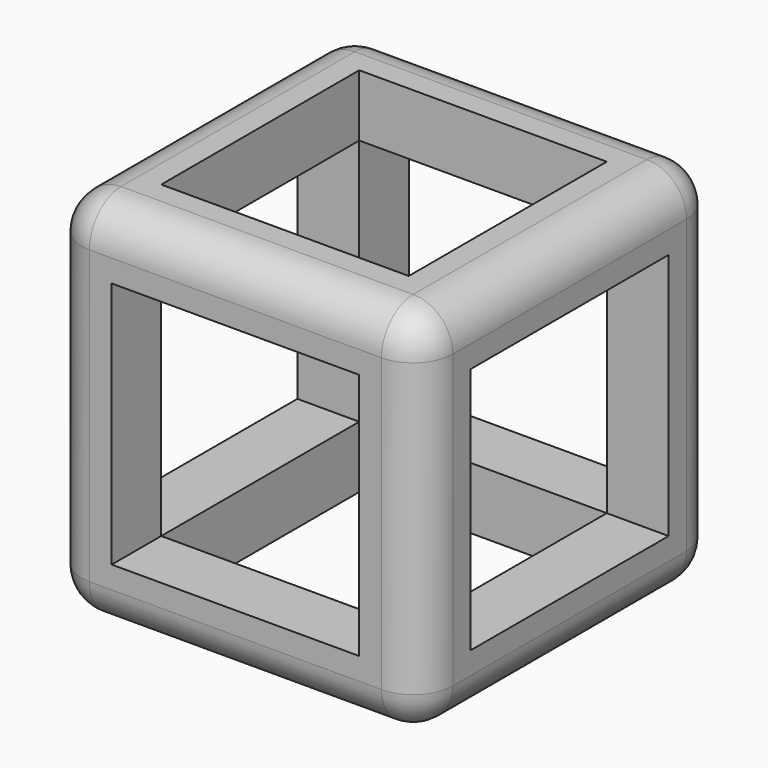
from build123d import *

# Parameters (mm, degrees)
F0_W      = 19.05
F0_H      = 19.05
F1_DEPTH  = 19.05
F2_R      = 2.032
F3_W      = 12.7
F3_H      = 12.7
F4_DEPTH  = 3.302
F5_W      = 6.35
F5_H      = 12.7
F6_DEPTH  = 3.302
F7_W      = 6.35
F7_H      = 12.7
F8_DEPTH  = 3.302
F9_W      = 6.35
F9_H      = 12.7
F10_DEPTH = 3.302
F11_W     = 6.35
F11_H     = 12.7
F12_DEPTH = 3.302
F13_W     = 6.35
F13_H     = 12.7
F14_DEPTH = 41.148


with BuildPart() as f1:
    # F0 (on Top) → F1 (new body)
    with BuildSketch(Plane.XY):
        Rectangle(F0_W, F0_H)
    extrude(amount=F1_DEPTH)

    # F2
    f2_edges = [f1.edges().sort_by_distance(p)[0] for p in [
        (-9.525, 0, 19.05),
        (0, -9.525, 19.05),
        (9.525, 0, 19.05),
        (0, 9.525, 19.05),
        (-9.525, 9.525, 9.525),
        (-9.525, -9.525, 9.525),
        (-9.525, 0, 0),
        (9.525, 9.525, 9.525),
        (0, 9.525, 0),
        (9.525, -9.525, 9.525),
        (0, -9.525, 0),
        (9.525, 0, 0),
    ]]
    fillet(f2_edges, radius=F2_R)

    # F3 (on face) → F4 (cut)
    with BuildSketch(Plane.XY.offset(19.05)):
        Rectangle(F3_W, F3_H)
    extrude(amount=-F4_DEPTH, mode=Mode.SUBTRACT)

    # F5 (on face) → F6 (cut)
    with BuildSketch(Plane(origin=(-9.525, 0, 0), x_dir=(0, -1, 0), z_dir=(-1, 0, 0))):
        with Locations((3.175, 9.525)):
            Rectangle(F5_W, F5_H)
        with Locations((-3.175, 9.525)):
            Rectangle(F5_W, F5_H)
    extrude(amount=-F6_DEPTH, mode=Mode.SUBTRACT)

    # F7 (on face) → F8 (cut)
    with BuildSketch(Plane.YZ.offset(9.525)):
        with Locations((3.175, 9.525)):
            Rectangle(F7_W, F7_H)
        with Locations((-3.175, 9.525)):
            Rectangle(F7_W, F7_H)
    extrude(amount=-F8_DEPTH, mode=Mode.SUBTRACT)

    # F9 (on face) → F10 (cut)
    with BuildSketch(Plane.XZ.offset(9.525)):
        with Locations((3.175, 9.525)):
            Rectangle(F9_W, F9_H)
        with Locations((-3.175, 9.525)):
            Rectangle(F9_W, F9_H)
    extrude(amount=-F10_DEPTH, mode=Mode.SUBTRACT)

    # F11 (on face) → F12 (cut)
    with BuildSketch(Plane(origin=(0, 9.525, 0), x_dir=(-1, 0, 0), z_dir=(0, 1, 0))):
        with Locations((-3.175, 9.525)):
            Rectangle(F11_W, F11_H)
        with Locations((3.175, 9.525)):
            Rectangle(F11_W, F11_H)
    extrude(amount=-F12_DEPTH, mode=Mode.SUBTRACT)

    # F13 (on face) → F14 (cut)
    with BuildSketch(Plane(origin=(0, 0, 0), x_dir=(1, 0, 0), z_dir=(0, 0, -1))):
        with Locations((3.175, 0)):
            Rectangle(F13_W, F13_H)
        with Locations((-3.175, 0)):
            Rectangle(F13_W, F13_H)
    extrude(amount=-F14_DEPTH, mode=Mode.SUBTRACT)


solid = f1.part
